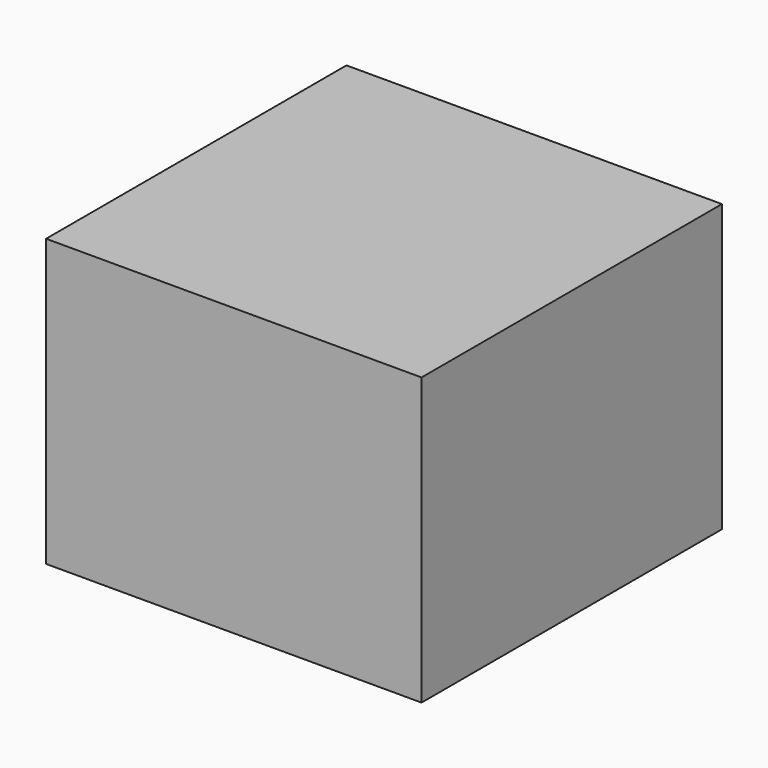
from build123d import *

# Parameters (mm, degrees)
BOX012_W     = 500
BOX012_H     = 460
BOX012_DEPTH = 500
BOX_W        = 800
BOX_H        = 610
BOX_DEPTH    = 800


with BuildPart() as cube011:
    # Box012 → Box012 (new body)
    with BuildSketch(Plane(origin=(-50, -50, 150), x_dir=(1, 0, 0), z_dir=(0, 1, 0))):
        with Locations((250, 230)):
            Rectangle(BOX012_W, BOX012_H)
    extrude(amount=BOX012_DEPTH)


with BuildPart() as cut:
    # Box → Box (new body)
    with BuildSketch(Plane(origin=(-200, -200, 300), x_dir=(1, 0, 0), z_dir=(0, 1, 0))):
        with Locations((400, 305)):
            Rectangle(BOX_W, BOX_H)
    extrude(amount=BOX_DEPTH)

    # Cut: cut Cube011
    add(cube011.part, mode=Mode.SUBTRACT)


solid = cut.part
